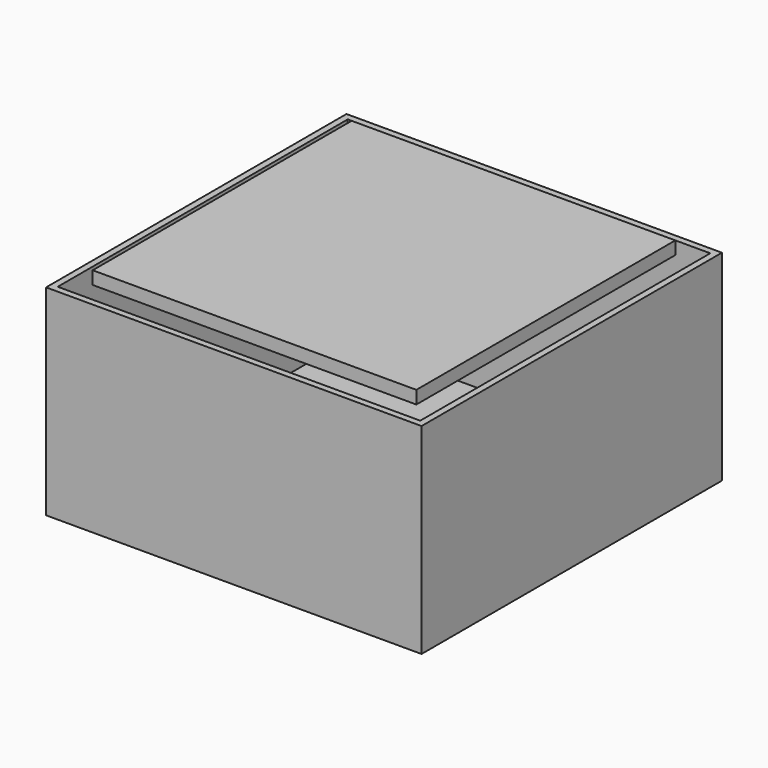
from build123d import *

# Parameters (mm, degrees)
F0_W     = 250
F0_H     = 250
F1_DEPTH = 10
F2_W     = 290
F2_H     = 290
F2_W_2   = 280
F2_H_2   = 280
F3_DEPTH = 150
F4_W     = 290
F4_H     = 290
F4_W_2   = 280
F4_H_2   = 280
F5_DEPTH = 5


with BuildPart() as f1:
    # F0 (on Top) → F1 (new body)
    with BuildSketch(Plane.XY):
        Rectangle(F0_W, F0_H)
    extrude(amount=F1_DEPTH)


with BuildPart() as f3:
    # F2 (on Top) → F3 (new body)
    with BuildSketch(Plane.XY):
        Rectangle(F2_W, F2_H)
        Rectangle(F2_W_2, F2_H_2, mode=Mode.SUBTRACT)
    extrude(amount=-F3_DEPTH)

    # F4 (on face) → F5 (join)
    with BuildSketch(Plane(origin=(0, 0, -150), x_dir=(1, 0, 0), z_dir=(0, 0, -1))):
        Rectangle(F4_W, F4_H)
        Rectangle(F4_W_2, F4_H_2, mode=Mode.SUBTRACT)
        Rectangle(F4_W_2, F4_H_2)
    extrude(amount=F5_DEPTH)


solid = Compound([f1.part, f3.part])
